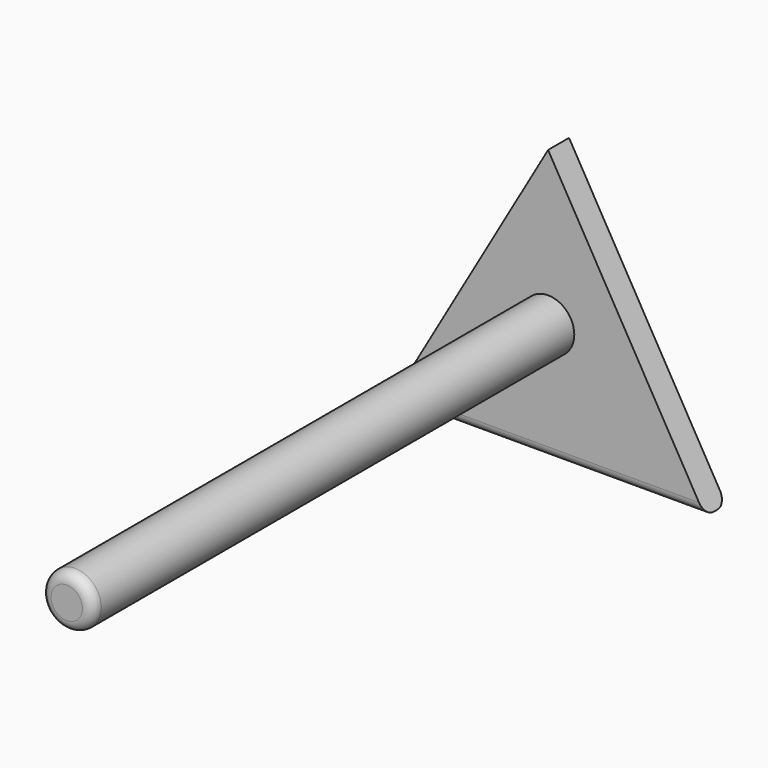
from build123d import *

# Parameters (mm, degrees)
F0_R     = 12.7
F1_DEPTH = 12.7
F2_DEPTH = 304.8
F3_R     = 5.08
F4_R     = 5.08
F5_R     = 5.08


with BuildPart() as f1:
    # F0 (on Front) → F1 (new body)
    with BuildSketch(Plane.XZ):
        Polygon((76.2, -57.15991), (0, 74.822362), (-76.2, -57.15991), align=None)
        Circle(F0_R, mode=Mode.SUBTRACT)
    extrude(amount=F1_DEPTH)

    # F0 (on Front) → F2 (join)
    with BuildSketch(Plane.XZ):
        Circle(F0_R)
    extrude(amount=F2_DEPTH)

    # F3
    f3_edges = [f1.edges().sort_by_distance(p)[0] for p in [
        (-12.7, -304.8, 0),
    ]]
    fillet(f3_edges, radius=F3_R)

    # F4
    f4_edges = [f1.edges().sort_by_distance(p)[0] for p in [
        (0, -12.7, -57.15991),
    ]]
    fillet(f4_edges, radius=F4_R)

    # F5
    f5_edges = [f1.edges().sort_by_distance(p)[0] for p in [
        (0, 0, -57.15991),
    ]]
    fillet(f5_edges, radius=F5_R)


solid = f1.part
